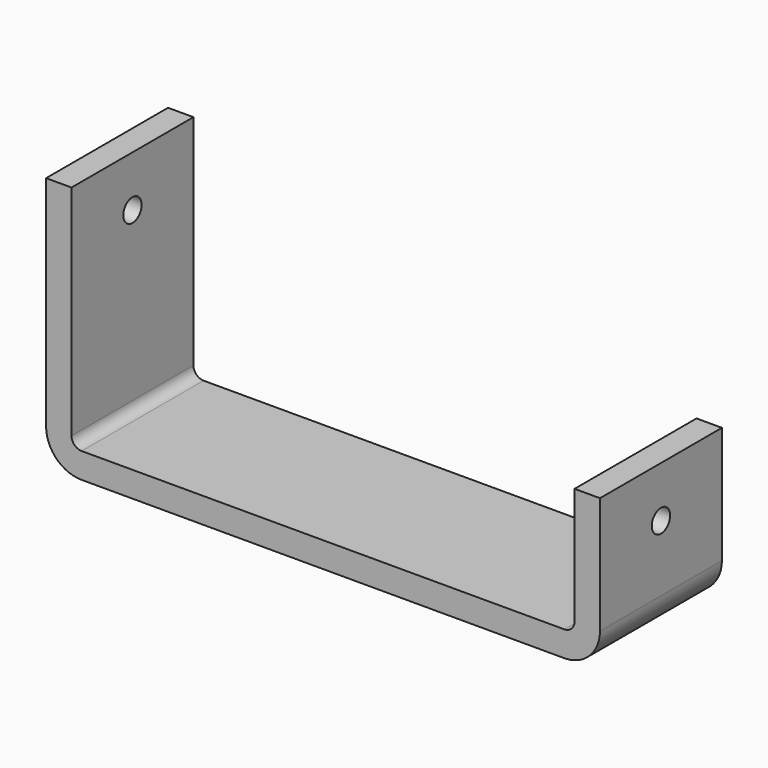
from build123d import *

# Parameters (mm, degrees)
F1_DEPTH = 150
F2_R     = 22.5
F3_DEPTH = 50
F4_R     = 22.5
F5_DEPTH = 50


with BuildPart() as f1:
    # F0 (on Front) → F1 (new body, symmetric)
    with BuildSketch(Plane.XZ):
        with BuildLine():
            ThreePointArc((0, 70), (20.5025253169, 20.5025253169), (70, 0))
            Line((70, 0), (1020, 0))
            ThreePointArc((1020, 0), (1069.4974746831, 20.5025253169), (1090, 70))
            Line((1090, 70), (1090, 300))
            Line((1090, 300), (1040, 300))
            Line((1040, 300), (1040, 70))
            ThreePointArc((1040, 70), (1034.1421356237, 55.8578643763), (1020, 50))
            Line((1020, 50), (70, 50))
            ThreePointArc((70, 50), (55.8578643763, 55.8578643763), (50, 70))
            Line((50, 70), (50, 500))
            Line((50, 500), (0, 500))
            Line((0, 500), (0, 70))
        make_face()
    extrude(amount=F1_DEPTH, both=True)

    # F2 (on face) → F3 (cut, through all)
    with BuildSketch(Plane.YZ.offset(1090)):
        with Locations((0, 200)):
            Circle(F2_R)
    extrude(amount=-F3_DEPTH, mode=Mode.SUBTRACT)

    # F4 (on face) → F5 (cut, through all)
    with BuildSketch(Plane(origin=(0, 0, 0), x_dir=(0, -1, 0), z_dir=(-1, 0, 0))):
        with Locations((0, 400)):
            Circle(F4_R)
    extrude(amount=-F5_DEPTH, mode=Mode.SUBTRACT)


solid = f1.part
